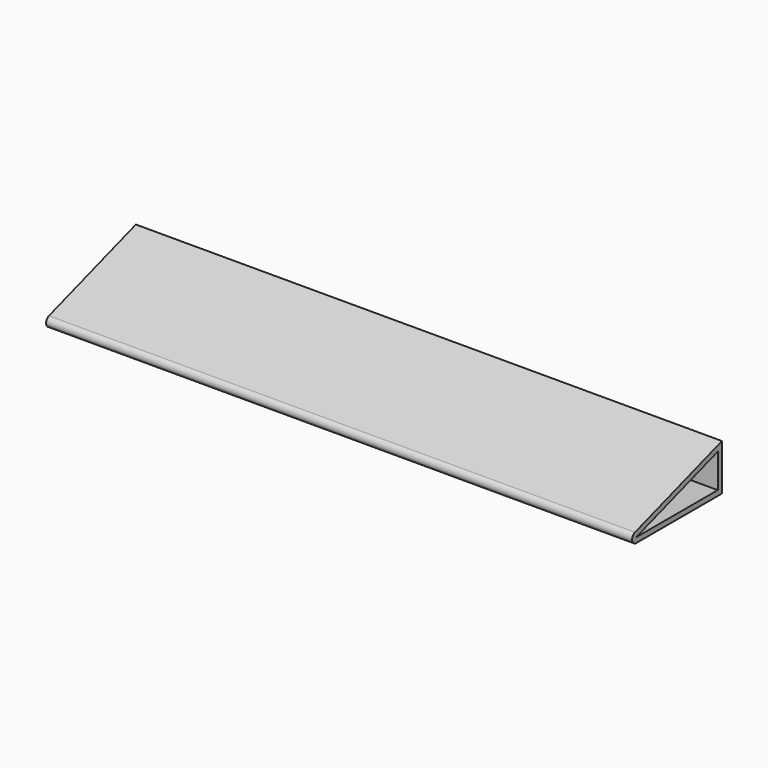
from build123d import *

# Parameters (mm, degrees)
F1_DEPTH = 453


with BuildPart() as f1:
    # F0 (on Right) → F1 (new body)
    with BuildSketch(Plane.YZ):
        with BuildLine():
            Line((-252, 0), (-169.264911, 0))
            Line((-169.264911, 0), (-169.264911, 35.794733))
            Line((-169.264911, 35.794733), (-253.264911, 7.794733))
            ThreePointArc((-253.264911, 7.794733), (-255.94835, 3.359271), (-252, 0))
        make_face()
        Polygon((-252, 4), (-173.264911, 30.24503), (-173.264911, 4), align=None, mode=Mode.SUBTRACT)
    extrude(amount=F1_DEPTH)


solid = f1.part
